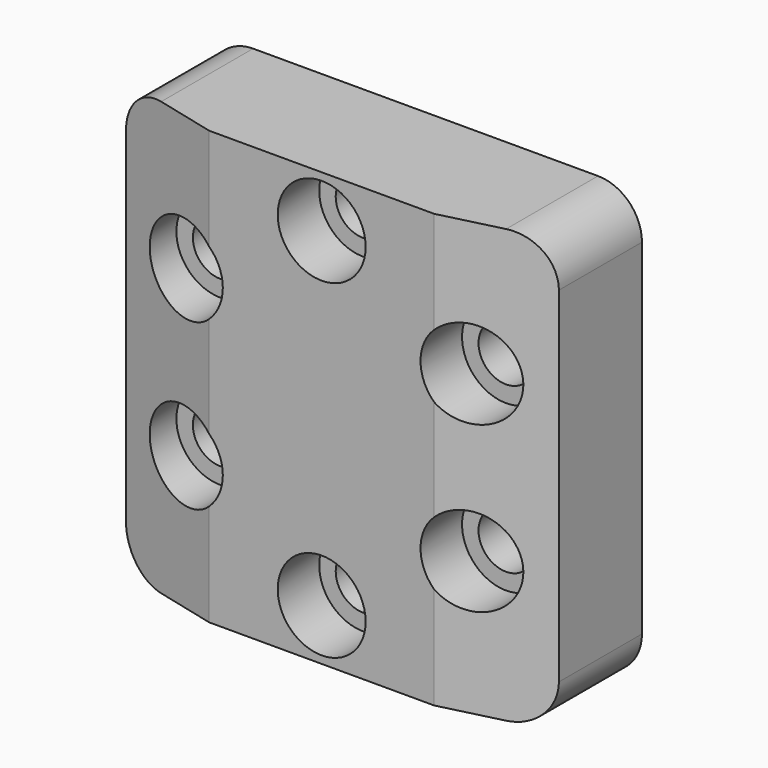
from build123d import *

# Parameters (mm, degrees)
F1_DEPTH       = 50
F3_D           = 6.35
F3_CBORE_D     = 10.16
F3_CBORE_DEPTH = 5.9944
F5_DEPTH       = 50.001
F6_R           = 5.08
F7_R           = 15
F7_R_2         = 13
F8_DEPTH       = 1.8


with BuildPart() as f1:
    # F0 (on Right) → F1 (new body)
    with BuildSketch(Plane.YZ):
        Polygon((0, 25), (0, 0), (0, -25), (15, -25), (15, 25), align=None)
    extrude(amount=F1_DEPTH)

    # F3 (through all)
    with Locations(Plane.XZ):
        with Locations((25, 19.052559), (8.5, 9.526279), (41.5, 9.526279), (41.5, -9.526279), (25, -19.052559), (8.5, -9.526279)):
            CounterBoreHole(F3_D / 2, F3_CBORE_D / 2, F3_CBORE_DEPTH)

    # F4 (on face) → F5 (cut, through all)
    with BuildSketch(Plane.XY.offset(25)):
        Polygon((50, 0), (50, 3), (38, 0), align=None)
        Polygon((0, 0), (12, 0), (0, 3), align=None)
    extrude(amount=-F5_DEPTH, mode=Mode.SUBTRACT)

    # F6
    f6_edges = [f1.edges().sort_by_distance(p)[0] for p in [
        (50, 9, 25),
        (0, 9, 25),
        (0, 9, -25),
        (50, 9, -25),
    ]]
    fillet(f6_edges, radius=F6_R)

    # F7 (on face) → F8 (cut)
    with BuildSketch(Plane(origin=(0, 15, 0), x_dir=(-1, 0, 0), z_dir=(0, 1, 0))):
        with Locations((-25, 0)):
            Circle(F7_R)
        with Locations((-25, 0)):
            Circle(F7_R_2, mode=Mode.SUBTRACT)
    extrude(amount=-F8_DEPTH, mode=Mode.SUBTRACT)


solid = f1.part
